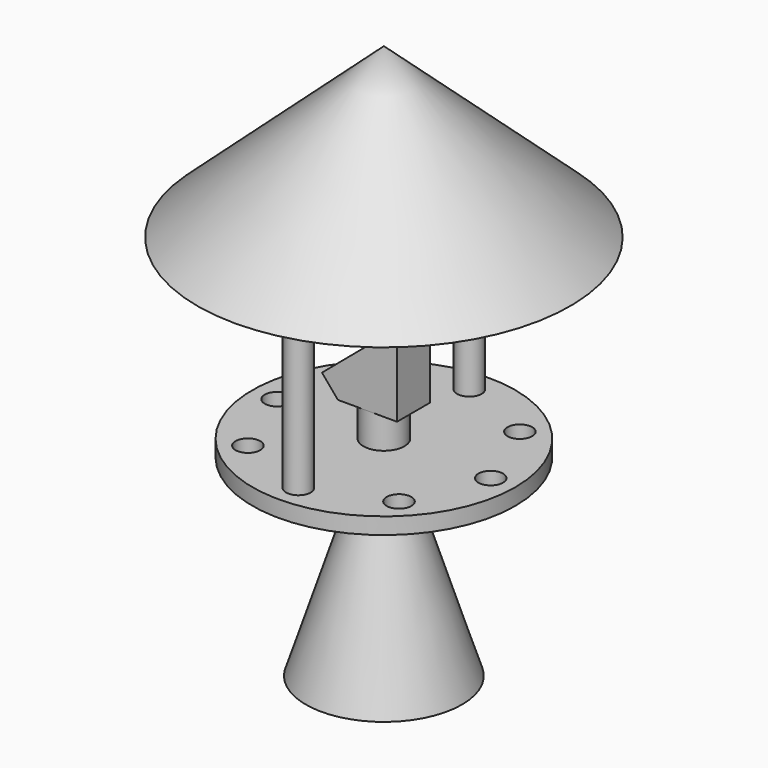
from build123d import *

# Parameters (mm, degrees)
F2_T      = -1.5
F3_R      = 80
F4_DEPTH  = 10
F5_R      = 7.5
F6_DEPTH  = 10
F7_R      = 12.5
F8_DEPTH  = 20
F10_DEPTH = 12.5
F11_R     = 7.5
F12_DEPTH = 150


with BuildPart() as f1:
    # F0 (on Front) → F1 (revolve)
    with BuildSketch(Plane.XZ):
        Polygon((10, 58.5), (0, 58.5), (0, -58.5), (47.5, -58.5), align=None)
    revolve(axis=Axis((0, 0, 0), (0, 0, 1)))

    # F2
    f2_openings = [f1.faces().sort_by_distance(p)[0] for p in [
        (0, 0, -58.5),
    ]]
    offset(amount=F2_T, openings=f2_openings)

    # F3 (on face) → F4 (join)
    with BuildSketch(Plane.XY.offset(58.5)):
        Circle(F3_R)
    extrude(amount=F4_DEPTH)

    # F5 (on face) → F6 (cut, through all)
    with BuildSketch(Plane.XY.offset(68.5)):
        with Locations((-65, 0)):
            Circle(F5_R)
        with Locations((-45.961941, -45.961941)):
            Circle(F5_R)
        with Locations((0, -65)):
            Circle(F5_R)
        with Locations((45.961941, -45.961941)):
            Circle(F5_R)
        with Locations((65, 0)):
            Circle(F5_R)
        with Locations((45.961941, 45.961941)):
            Circle(F5_R)
        with Locations((0, 65)):
            Circle(F5_R)
        with Locations((-45.961941, 45.961941)):
            Circle(F5_R)
    extrude(amount=-F6_DEPTH, mode=Mode.SUBTRACT)

    # F7 (on face) → F8 (join)
    with BuildSketch(Plane.XY.offset(68.5)):
        Circle(F7_R)
    extrude(amount=F8_DEPTH)

    # F9 (on Front) → F10 (join, symmetric)
    with BuildSketch(Plane.XZ):
        Polygon((-27.672915, 99.964498), (-18, 88.5), (18, 88.5), (18, 138.5), align=None)
    extrude(amount=F10_DEPTH, both=True)

    # F11 (on face) → F12 (join)
    with BuildSketch(Plane(origin=(0, 0, 58.5), x_dir=(1, 0, 0), z_dir=(0, 0, -1))):
        with Locations((0, -65)):
            Circle(F11_R)
        with Locations((0, 65)):
            Circle(F11_R)
    extrude(amount=-F12_DEPTH)

    # F13 (on Right) → F14 (revolve)
    with BuildSketch(Plane.YZ):
        Polygon((0, 278.771132), (-113.463566, 176.431447), (0, 176.431447), align=None)
    revolve(axis=Axis((0, 0, 227.60129), (0, 0, -1)))


solid = f1.part
